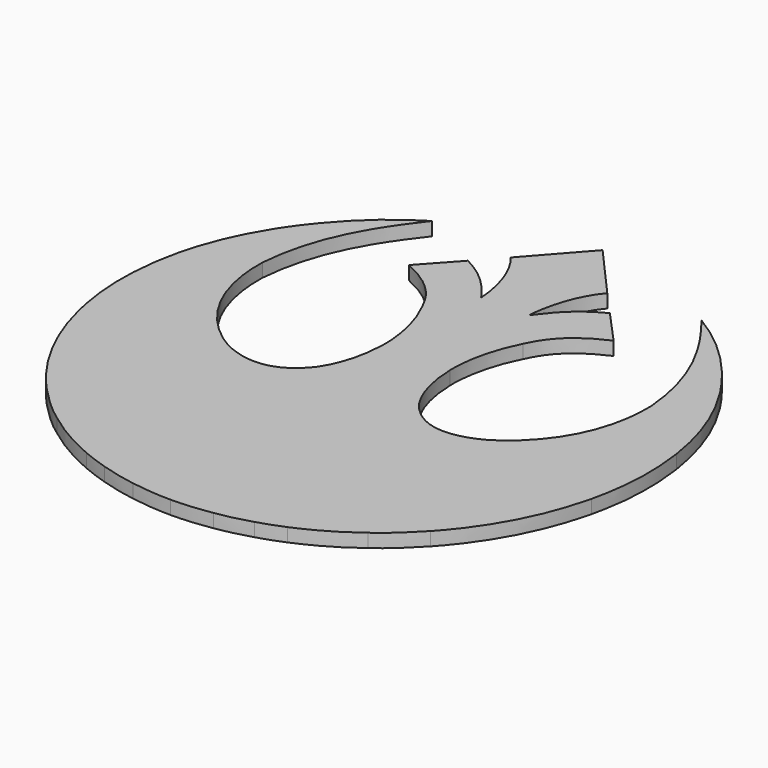
from build123d import *

# Parameters (mm, degrees)
F1_DEPTH = 1


with BuildPart() as f1:
    # F0 (on Top) → F1 (new body)
    with BuildSketch(Plane.XY):
        with BuildLine():
            Line((3.579062, 15.997813), (0, 20.038363))
            Line((0, 20.038363), (-3.579062, 15.997813))
            add(Edge.make_bspline(
                [(-3.579062, 15.997813), (-2.214011, 14.396154), (-1.813596, 12.011866), (-1.777195, 11.029029)],
                knots=[0, 0, 0, 0, 5.285409, 5.285409, 5.285409, 5.285409], degree=3))
            add(Edge.make_bspline(
                [(-1.777195, 11.029029), (-2.742199, 12.312406), (-3.461874, 13.199826), (-5.253524, 14.141345)],
                knots=[0, 0, 0, 0, 4.66598, 4.66598, 4.66598, 4.66598], degree=3))
            Line((-5.253524, 14.141345), (-7.578195, 11.584778))
            add(Edge.make_bspline(
                [(-7.578195, 11.584778), (-4.584184, 10.274329), (-4.019963, 8.499763), (-3.728752, 7.999245)],
                knots=[0, 0, 0, 0, 5.260633, 5.260633, 5.260633, 5.260633], degree=3))
            add(Edge.make_bspline(
                [(-3.728752, 7.999245), (-2.700414, 5.997171), (-2.454705, 3.985996), (-2.500207, 2.802952)],
                knots=[0, 0, 0, 0, 5.339549, 5.339549, 5.339549, 5.339549], degree=3))
            add(Edge.make_bspline(
                [(-2.500207, 2.802952), (-2.573009, -0.072755), (-3.66505, -1.501508), (-3.819756, -1.747217)],
                knots=[0, 0, 0, 0, 4.737642, 4.737642, 4.737642, 4.737642], degree=3))
            add(Edge.make_bspline(
                [(-3.819756, -1.747217), (-4.365776, -2.402442), (-6.076639, -4.486419), (-9.525668, -2.739154)],
                knots=[0, 0, 0, 0, 5.791491, 5.791491, 5.791491, 5.791491], degree=3))
            add(Edge.make_bspline(
                [(-9.525668, -2.739154), (-10.633131, -2.132458), (-14.527799, 0.595101), (-14.390765, 6.540306)],
                knots=[0, 0, 0, 0, 10.477479, 10.477479, 10.477479, 10.477479], degree=3))
            add(Edge.make_bspline(
                [(-14.390765, 6.540306), (-13.981922, 11.711812), (-11.33765, 14.913963), (-9.977424, 16.72974)],
                knots=[0, 0, 0, 0, 11.104149, 11.104149, 11.104149, 11.104149], degree=3))
            add(Edge.make_bspline(
                [(-9.977424, 16.72974), (-12.846339, 15.039146), (-15.045267, 12.524201), (-16.459247, 10.330621)],
                knots=[0, 0, 0, 0, 9.10839, 9.10839, 9.10839, 9.10839], degree=3))
            add(Edge.make_bspline(
                [(-16.459247, 10.330621), (-17.365262, 8.871559), (-18.730281, 6.45445), (-19.280606, 2.758645)],
                knots=[0, 0, 0, 0, 8.080525, 8.080525, 8.080525, 8.080525], degree=3))
            add(Edge.make_bspline(
                [(-19.280606, 2.758645), (-19.793346, -0.917996), (-19.243021, -3.329711), (-18.94978, -4.69844)],
                knots=[0, 0, 0, 0, 7.46442, 7.46442, 7.46442, 7.46442], degree=3))
            add(Edge.make_bspline(
                [(-18.94978, -4.69844), (-17.765756, -9.674388), (-15.143621, -12.604054), (-14.20664, -13.638732)],
                knots=[0, 0, 0, 0, 10.120583, 10.120583, 10.120583, 10.120583], degree=3))
            add(Edge.make_bspline(
                [(-14.20664, -13.638732), (-13.403441, -14.51529), (-12.222866, -15.593206), (-11.504254, -16.068003)],
                knots=[0, 0, 0, 0, 3.633765, 3.633765, 3.633765, 3.633765], degree=3))
            add(Edge.make_bspline(
                [(-11.504254, -16.068003), (-9.972031, -17.249116), (-8.487965, -17.96635), (-7.431189, -18.424159)],
                knots=[0, 0, 0, 0, 4.705457, 4.705457, 4.705457, 4.705457], degree=3))
            add(Edge.make_bspline(
                [(-7.431189, -18.424159), (-6.675803, -18.752256), (-5.962383, -18.977345), (-5.542725, -19.107058)],
                knots=[0, 0, 0, 0, 2.008145, 2.008145, 2.008145, 2.008145], degree=3))
            add(Edge.make_bspline(
                [(-5.542725, -19.107058), (-4.604215, -19.412267), (-3.730562, -19.587761), (-2.978992, -19.709844)],
                knots=[0, 0, 0, 0, 2.633643, 2.633643, 2.633643, 2.633643], degree=3))
            add(Edge.make_bspline(
                [(-2.978992, -19.709844), (-2.017592, -19.87389), (-0.747171, -19.973081), (0, -19.961637)],
                knots=[0, 0, 0, 0, 2.989614, 2.989614, 2.989614, 2.989614], degree=3))
            add(Edge.make_bspline(
                [(2.978992, -19.709844), (2.017592, -19.87389), (0.747171, -19.973081), (0, -19.961637)],
                knots=[0, 0, 0, 0, 2.989614, 2.989614, 2.989614, 2.989614], degree=3))
            add(Edge.make_bspline(
                [(5.542725, -19.107058), (4.604215, -19.412267), (3.730562, -19.587761), (2.978992, -19.709844)],
                knots=[0, 0, 0, 0, 2.633643, 2.633643, 2.633643, 2.633643], degree=3))
            add(Edge.make_bspline(
                [(7.431189, -18.424159), (6.675803, -18.752256), (5.962383, -18.977345), (5.542725, -19.107058)],
                knots=[0, 0, 0, 0, 2.008145, 2.008145, 2.008145, 2.008145], degree=3))
            add(Edge.make_bspline(
                [(11.504254, -16.068003), (9.972031, -17.249116), (8.487965, -17.96635), (7.431189, -18.424159)],
                knots=[0, 0, 0, 0, 4.705457, 4.705457, 4.705457, 4.705457], degree=3))
            add(Edge.make_bspline(
                [(14.20664, -13.638732), (13.403441, -14.51529), (12.222866, -15.593206), (11.504254, -16.068003)],
                knots=[0, 0, 0, 0, 3.633765, 3.633765, 3.633765, 3.633765], degree=3))
            add(Edge.make_bspline(
                [(18.94978, -4.69844), (17.765756, -9.674388), (15.143621, -12.604054), (14.20664, -13.638732)],
                knots=[0, 0, 0, 0, 10.120583, 10.120583, 10.120583, 10.120583], degree=3))
            add(Edge.make_bspline(
                [(19.280606, 2.758645), (19.793346, -0.917996), (19.243021, -3.329711), (18.94978, -4.69844)],
                knots=[0, 0, 0, 0, 7.46442, 7.46442, 7.46442, 7.46442], degree=3))
            add(Edge.make_bspline(
                [(16.459247, 10.330621), (17.365262, 8.871559), (18.730281, 6.45445), (19.280606, 2.758645)],
                knots=[0, 0, 0, 0, 8.080525, 8.080525, 8.080525, 8.080525], degree=3))
            add(Edge.make_bspline(
                [(9.977424, 16.72974), (12.846339, 15.039146), (15.045267, 12.524201), (16.459247, 10.330621)],
                knots=[0, 0, 0, 0, 9.10839, 9.10839, 9.10839, 9.10839], degree=3))
            add(Edge.make_bspline(
                [(14.390765, 6.540306), (13.981922, 11.711812), (11.33765, 14.913963), (9.977424, 16.72974)],
                knots=[0, 0, 0, 0, 11.104149, 11.104149, 11.104149, 11.104149], degree=3))
            add(Edge.make_bspline(
                [(9.525668, -2.739154), (10.633131, -2.132458), (14.527799, 0.595101), (14.390765, 6.540306)],
                knots=[0, 0, 0, 0, 10.477479, 10.477479, 10.477479, 10.477479], degree=3))
            add(Edge.make_bspline(
                [(3.819756, -1.747217), (4.365776, -2.402442), (6.076639, -4.486419), (9.525668, -2.739154)],
                knots=[0, 0, 0, 0, 5.791491, 5.791491, 5.791491, 5.791491], degree=3))
            add(Edge.make_bspline(
                [(2.500207, 2.802952), (2.573009, -0.072755), (3.66505, -1.501508), (3.819756, -1.747217)],
                knots=[0, 0, 0, 0, 4.737642, 4.737642, 4.737642, 4.737642], degree=3))
            add(Edge.make_bspline(
                [(3.728752, 7.999245), (2.700414, 5.997171), (2.454705, 3.985996), (2.500207, 2.802952)],
                knots=[0, 0, 0, 0, 5.339549, 5.339549, 5.339549, 5.339549], degree=3))
            add(Edge.make_bspline(
                [(7.578195, 11.584778), (4.584184, 10.274329), (4.019963, 8.499763), (3.728752, 7.999245)],
                knots=[0, 0, 0, 0, 5.260633, 5.260633, 5.260633, 5.260633], degree=3))
            Line((7.578195, 11.584778), (5.253524, 14.141345))
            add(Edge.make_bspline(
                [(1.777195, 11.029029), (2.742199, 12.312406), (3.461874, 13.199826), (5.253524, 14.141345)],
                knots=[0, 0, 0, 0, 4.66598, 4.66598, 4.66598, 4.66598], degree=3))
            add(Edge.make_bspline(
                [(3.579062, 15.997813), (2.214011, 14.396154), (1.813596, 12.011866), (1.777195, 11.029029)],
                knots=[0, 0, 0, 0, 5.285409, 5.285409, 5.285409, 5.285409], degree=3))
        make_face()
    extrude(amount=F1_DEPTH)


solid = f1.part
